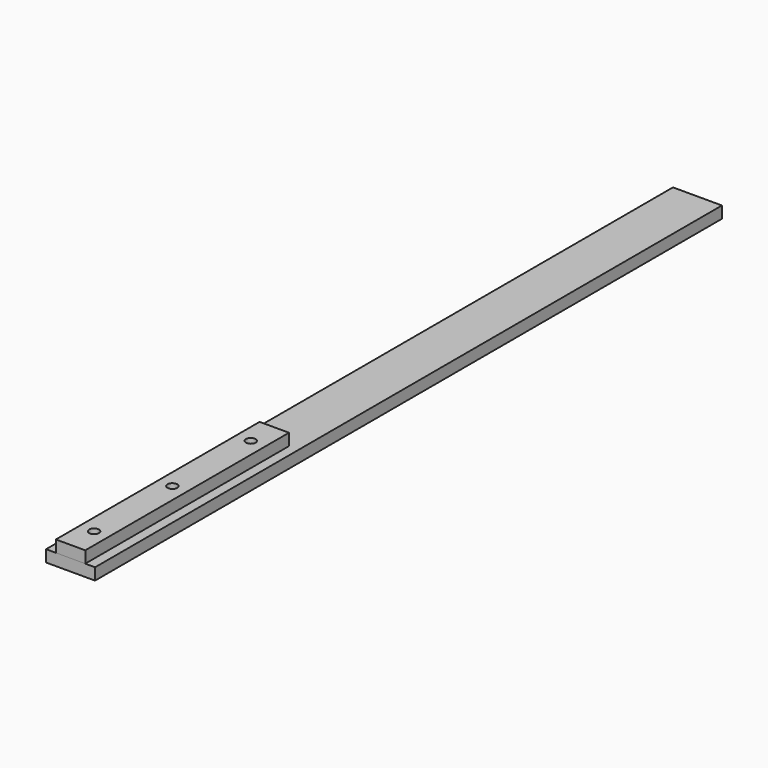
from build123d import *

# Parameters (mm, degrees)
F0_W     = 15
F0_H     = 130
F1_DEPTH = 6
F2_DEPTH = 6
F3_D     = 5
F4_D     = 5


with BuildPart() as f1:
    # F0 (on Top) → F1 (new body)
    with BuildSketch(Plane.XY):
        Polygon((-12.5, 200), (-12.5, -200), (-7.5, -200), (-7.5, -70), (7.5, -70), (7.5, -200), (12.5, -200), (12.5, 200), align=None)
        with Locations((0, -135)):
            Rectangle(F0_W, F0_H)
    extrude(amount=-F1_DEPTH)

    # F3 (through all)
    with Locations(Plane.XY):
        with Locations((0, -135), (0, -185), (0, -85)):
            Hole(F3_D / 2)


with BuildPart() as f2:
    # F0 (on Top) → F2 (new body)
    with BuildSketch(Plane.XY):
        with Locations((0, -135)):
            Rectangle(F0_W, F0_H)
    extrude(amount=F2_DEPTH)

    # F4 (through all)
    with Locations(Plane(origin=(0, 0, 0), x_dir=(1, 0, 0), z_dir=(0, 0, -1))):
        with Locations((0, 185), (0, 135), (0, 85)):
            Hole(F4_D / 2)


solid = Compound([f1.part, f2.part])
